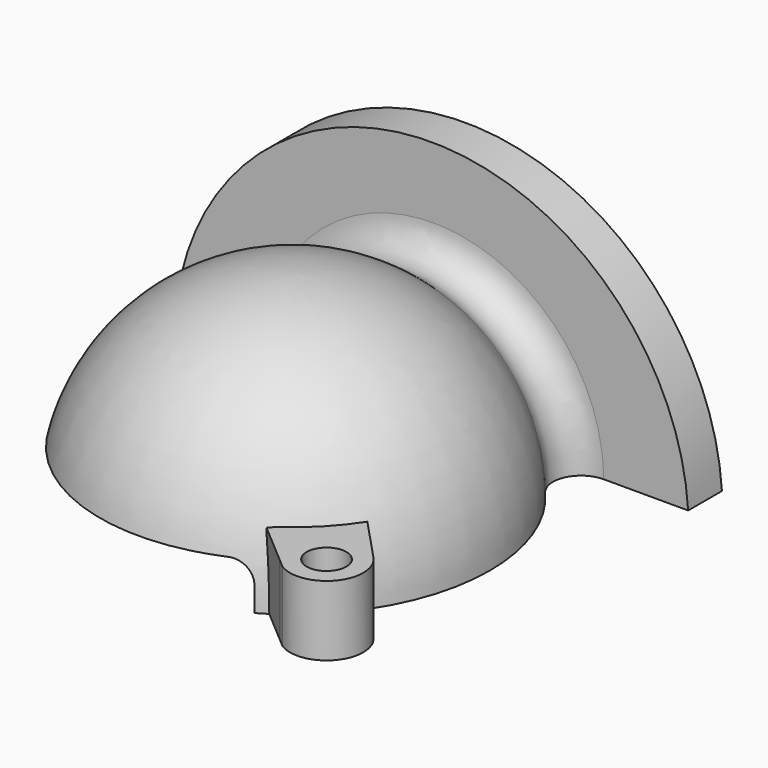
from build123d import *

# Parameters (mm, degrees)
F3_ANGLE  = -120
F5_R      = 39.799134
F6_DEPTH  = 13.97305
F7_R      = 5.08
F9_DEPTH  = 6.88873
F10_R     = 5.08
F13_DEPTH = 9.82274
F14_R     = 6.535425
F16_DEPTH = 16.30283
F17_R     = 4.624965
F18_DEPTH = 25.4


with BuildPart() as f1:
    # F0 (on Front) → F1 (revolve)
    with BuildSketch(Plane.XZ):
        with BuildLine():
            Line((0, 0), (46.005752, 0))
            ThreePointArc((46.005752, 0), (32.530979, 32.530979), (0, 46.005752))
            Line((0, 46.005752), (0, 41.142201))
            Line((0, 41.142201), (0, 0))
        make_face()
    revolve(axis=Axis((0, 0, 17.430749), (0, 0, -1)))

    # F2 (on Front) → F3 (revolve, cut)
    with BuildSketch(Plane.XZ):
        with BuildLine():
            Line((-36.618505, 10.375102), (-47.192326, 10.375102))
            ThreePointArc((-47.192326, 10.375102), (-48.919898, 3.8926), (-49.050391, -2.814881))
            Line((-49.050391, -2.814881), (-39.58387, -2.814881))
            ThreePointArc((-39.58387, -2.814881), (-39.348321, 4.060491), (-36.618505, 10.375102))
        make_face()
    revolve(axis=Axis((0, 0, 9.538054), (0, 0, -1)), revolution_arc=F3_ANGLE, mode=Mode.SUBTRACT)

    # F5 (on face) → F6 (cut)
    with BuildSketch(Plane(origin=(0, 0, 0), x_dir=(1, 0, 0), z_dir=(0, 0, -1))):
        Circle(F5_R)
    extrude(amount=-F6_DEPTH, mode=Mode.SUBTRACT)

    # F7
    f7_edges = [f1.edges().sort_by_distance(p)[0] for p in [
        (-42.309868, 0, 10.375102),
        (21.154934, -36.641421, 10.375102),
    ]]
    fillet(f7_edges, radius=F7_R)

    # F8 (on face) → F9 (cut)
    with BuildSketch(Plane(origin=(0, 0, 13.97305), x_dir=(1, 0, 0), z_dir=(0, 0, -1))):
        with BuildLine():
            ThreePointArc((-9.262623, 12.022737), (0, 15.177035), (9.262623, 12.022737))
            Line((9.262623, 12.022737), (21.20747, 18.508337))
            ThreePointArc((21.20747, 18.508337), (0, 28.308932), (-21.20747, 18.508337))
            Line((-21.20747, 18.508337), (-9.262623, 12.022737))
        make_face()
        with BuildLine():
            Line((-12.146096, -24.292193), (-7.613458, -13.129266))
            ThreePointArc((-7.613458, -13.129266), (-13.97769, -5.913253), (-14.724307, 3.679289))
            Line((-14.724307, 3.679289), (-26.02735, 9.446964))
            ThreePointArc((-26.02735, 9.446964), (-25.421442, -10.0289), (-12.146096, -24.292193))
        make_face()
        with BuildLine():
            ThreePointArc((14.724307, 3.679289), (15.063427, 1.853519), (15.177035, 0))
            ThreePointArc((15.177035, 0), (13.150895, -7.576037), (7.613458, -13.129266))
            Line((7.613458, -13.129266), (12.146096, -24.292193))
            ThreePointArc((12.146096, -24.292193), (26.996569, -10.676952), (26.02735, 9.446964))
            Line((26.02735, 9.446964), (14.724307, 3.679289))
        make_face()
    extrude(amount=-F9_DEPTH, mode=Mode.SUBTRACT)

    # F10
    f10_edges = [f1.edges().sort_by_distance(p)[0] for p in [
        (0, -28.308932, 20.86178),
        (26.996569, 10.676952, 20.86178),
        (-25.421442, 10.0289, 20.86178),
    ]]
    fillet(f10_edges, radius=F10_R)

    # F12 (on offset) → F13 (join)
    with BuildSketch(Plane.XZ.offset(-50.8)):
        with BuildLine():
            Line((-60.152095, 0), (59.380915, 0))
            ThreePointArc((59.380915, 0), (-0.38559, 56.103401), (-60.152095, 0))
        make_face()
    extrude(amount=F13_DEPTH)

    # F14
    f14_edges = [f1.edges().sort_by_distance(p)[0] for p in [
        (0, 40.97726, 20.913952),
    ]]
    fillet(f14_edges, radius=F14_R)

    # F15 (on Top) → F16 (join)
    with BuildSketch(Plane.XY):
        with BuildLine():
            Line((23.332688, -36.68533), (32.947928, -44.926273))
            Line((32.947928, -44.926273), (35.300068, -46.942224))
            ThreePointArc((35.300068, -46.942224), (46.288581, -44.873109), (45.836271, -33.700639))
            Line((45.836271, -33.700639), (35.300068, -22.459338))
            Line((35.300068, -22.459338), (23.332688, -36.68533))
        make_face()
    extrude(amount=F16_DEPTH)

    # F17 (on face) → F18 (cut)
    with BuildSketch(Plane.XY.offset(16.30283)):
        with Locations((39.59693, -39.548625)):
            Circle(F17_R)
    extrude(amount=-F18_DEPTH, mode=Mode.SUBTRACT)


solid = f1.part
